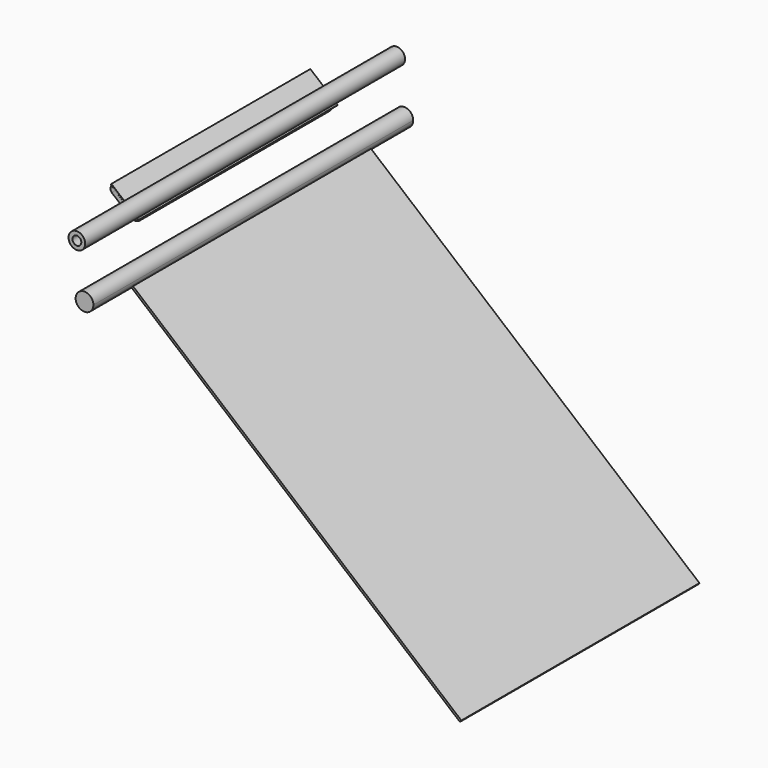
from build123d import *

# Parameters (mm, degrees)
F1_DEPTH = 425.45
F2_DEPTH = 571.5
F0_R     = 12.7
F3_DEPTH = 571.5
F4_DEPTH = 355.6
F7_DEPTH = 12.7


with BuildPart() as f1:
    # F0 (on Front) → F1 (new body, symmetric)
    with BuildSketch(Plane.XZ):
        with BuildLine():
            Line((778.6675206466, -613.9081587448), (-160.2433607585, 173.8933208623))
            ThreePointArc((-160.2433607585, 173.8933208623), (-162.0820566689, 171.296534145), (-164.2309846977, 168.9500021864))
            Line((-164.2309846977, 168.9500021864), (774.5859357546, -618.7726386522))
            Line((774.5859357546, -618.7726386522), (778.6675206466, -613.9081587448))
        make_face()
    extrude(amount=F1_DEPTH, both=True)

    # F0 (on Front) → F2 (join, symmetric)
    with BuildSketch(Plane.XZ):
        with BuildLine():
            Line((-160.2433607585, 173.8933208623), (-179.4952093534, 190.0467547063))
            Line((-179.4952093534, 190.0467547063), (-183.5905268279, 185.1937972437))
            Line((-183.5905268279, 185.1937972437), (-164.2309846977, 168.9500021864))
            ThreePointArc((-164.2309846977, 168.9500021864), (-162.0820566689, 171.296534145), (-160.2433607585, 173.8933208623))
        make_face()
        with BuildLine():
            Line((-183.5905268279, 185.1937972437), (-179.4952093534, 190.0467547063))
            Line((-179.4952093534, 190.0467547063), (-160.2433607585, 173.8933208623))
            ThreePointArc((-160.2433607585, 173.8933208623), (-157.417954, 180.3046887728), (-156.4516437276, 187.2440551914))
            ThreePointArc((-156.4516437276, 187.2440551914), (-205.226039328, 197.1837549012), (-164.2309846977, 168.9500021864))
            Line((-164.2309846977, 168.9500021864), (-183.5905268279, 185.1937972437))
        make_face()
    extrude(amount=F2_DEPTH, both=True)


with BuildPart() as f3:
    # F0 (on Front) → F3 (new body, symmetric)
    with BuildSketch(Plane.XZ):
        with BuildLine():
            ThreePointArc((-218.6106479033, 315.2180612468), (-193.4114979992, 312.3290577694), (-179.9029731282, 333.7967836106))
            ThreePointArc((-179.9029731282, 333.7967836106), (-213.5379568757, 355.4890395855), (-219.4245663487, 315.9009867174))
            Line((-219.4245663487, 315.9009867174), (-218.6106479033, 315.2180612468))
        make_face()
        with Locations((-203.7154731282, 333.7967836106)):
            Circle(F0_R, mode=Mode.SUBTRACT)
    extrude(amount=F3_DEPTH, both=True)


with BuildPart() as f4:
    # F0 (on Front) → F4 (new body, symmetric)
    with BuildSketch(Plane.XZ):
        with BuildLine():
            ThreePointArc((-218.6106479033, 315.2180612468), (-219.0214164734, 315.554983958), (-219.4245663487, 315.9009867174))
            Line((-219.4245663487, 315.9009867174), (-277.7983252369, 364.8800054221))
            Line((-277.7983252369, 364.8800054221), (-279.8391176829, 362.4477654684))
            Line((-279.8391176829, 362.4477654684), (-202.0074391654, 297.1424071956))
            Line((-202.0074391654, 297.1424071956), (-199.9666467193, 299.5746471492))
            Line((-199.9666467193, 299.5746471492), (-218.6106479033, 315.2180612468))
        make_face()
    extrude(amount=F4_DEPTH, both=True)

    # F6 (on offset) → F7 (join)
    with BuildSketch(Plane(origin=(62.8529918179, 0, 74.9089199174), x_dir=(0.7660598279, 0, -0.6427692743), z_dir=(-0.6427692743, 0, -0.7660598279))):
        with BuildLine():
            Line((-362.6220535138, 355.692833662), (-430.795699358, 355.692833662))
            ThreePointArc((-430.795699358, 355.692833662), (-442.0247912115, 351.0097832174), (-446.5991332871, 339.7359702024))
            Line((-446.5991332871, 339.7359702024), (-446.5991332871, -339.7359702024))
            ThreePointArc((-446.5991332871, -339.7359702024), (-442.0247912115, -351.0097832174), (-430.795699358, -355.692833662))
            Line((-430.795699358, -355.692833662), (-362.6220535138, -355.692833662))
            ThreePointArc((-362.6220535138, -355.692833662), (-351.074322037, -351.1230481675), (-345.7807777227, -339.8886620998))
            Line((-345.7807777227, -339.8886620998), (-345.7807777227, 339.8886620998))
            ThreePointArc((-345.7807777227, 339.8886620998), (-351.074322037, 351.1230481675), (-362.6220535138, 355.692833662))
        make_face()
    extrude(amount=F7_DEPTH)


solid = Compound([f1.part, f3.part, f4.part])
